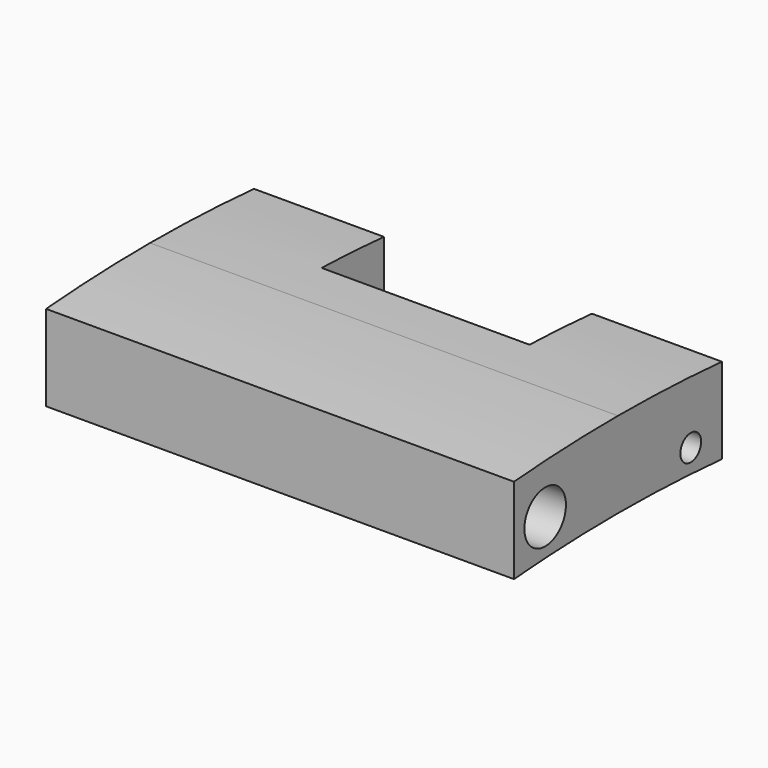
from build123d import *

# Parameters (mm, degrees)
F0_W     = 18
F0_H     = 3.5
F1_DEPTH = 10
F2_W     = 8
F2_H     = 6
F3_DEPTH = 25
F4_DEPTH = 21.2
F6_DEPTH = 18
F7_R     = 1
F8_DEPTH = 25


with BuildPart() as f1:
    # F0 (on Front) → F1 (new body)
    with BuildSketch(Plane.XZ):
        Rectangle(F0_W, F0_H)
    extrude(amount=F1_DEPTH)

    # F2 (on Top) → F3 (cut)
    with BuildSketch(Plane.XY):
        Rectangle(F2_W, F2_H)
    extrude(amount=-F3_DEPTH, mode=Mode.SUBTRACT)

    # F2 (on Top) → F4 (cut)
    with BuildSketch(Plane.XY):
        Rectangle(F2_W, F2_H)
    extrude(amount=F4_DEPTH, mode=Mode.SUBTRACT)

    # F5 (on face) → F6 (intersect)
    with BuildSketch(Plane.YZ.offset(9)):
        with BuildLine():
            ThreePointArc((0, 1.55), (-2.498001, 1.69998), (-5, 1.75))
            Line((-5, 1.75), (-5, -1.55))
            ThreePointArc((-5, -1.55), (-2.498001, -1.60002), (0, -1.75))
            Line((0, -1.75), (0, 1.55))
        make_face()
        with BuildLine():
            Line((-5, -1.55), (-5, 1.75))
            ThreePointArc((-5, 1.75), (-7.501999, 1.69998), (-10, 1.55))
            Line((-10, 1.55), (-10, -1.75))
            ThreePointArc((-10, -1.75), (-7.501999, -1.60002), (-5, -1.55))
        make_face()
    extrude(amount=-F6_DEPTH, mode=Mode.INTERSECT)

    # F7 (on face) → F8 (cut)
    with BuildSketch(Plane(origin=(-9, 0, 0), x_dir=(0, -1, 0), z_dir=(-1, 0, 0))):
        with BuildLine():
            ThreePointArc((1, -0.75), (1.5, -1.25), (2, -0.75))
            ThreePointArc((2, -0.75), (1.5, -0.25), (1, -0.75))
        make_face()
        with Locations((8.5, -0.25)):
            Circle(F7_R)
    extrude(amount=-F8_DEPTH, mode=Mode.SUBTRACT)


solid = f1.part
